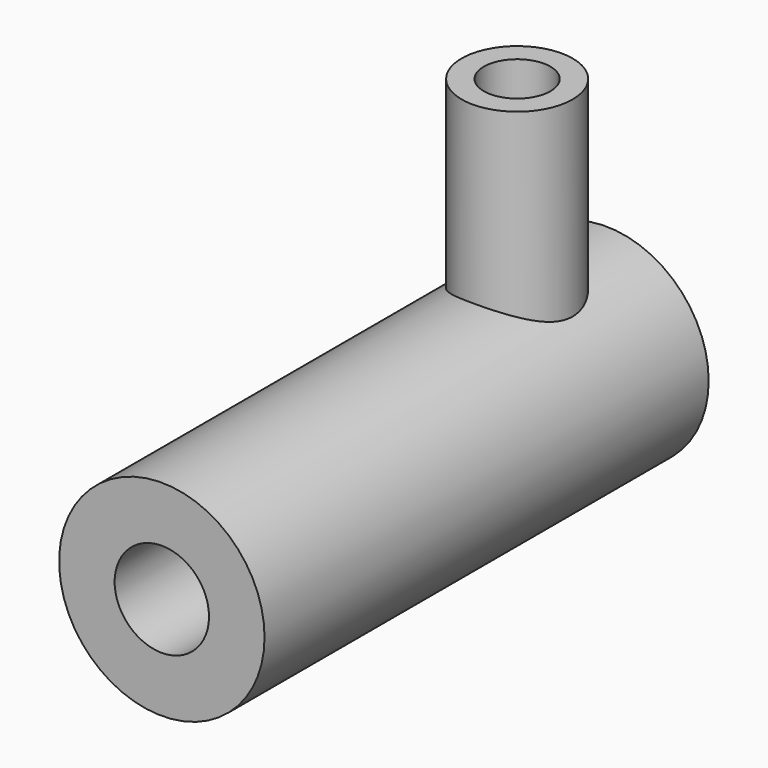
from build123d import *

# Parameters (mm, degrees)
F0_R     = 9.25
F0_R_2   = 4.25
F1_DEPTH = 25
F2_R     = 5
F2_R_2   = 3
F3_DEPTH = 25


with BuildPart() as f1:
    # F0 (on Front) → F1 (new body, symmetric)
    with BuildSketch(Plane.XZ):
        Circle(F0_R)
        Circle(F0_R_2, mode=Mode.SUBTRACT)
    extrude(amount=F1_DEPTH, both=True)

    # F2 (on Top) → F3 (join)
    with BuildSketch(Plane.XY):
        with Locations((0, 15)):
            Circle(F2_R)
        with Locations((0, 15)):
            Circle(F2_R_2, mode=Mode.SUBTRACT)
    extrude(amount=F3_DEPTH)


solid = f1.part
